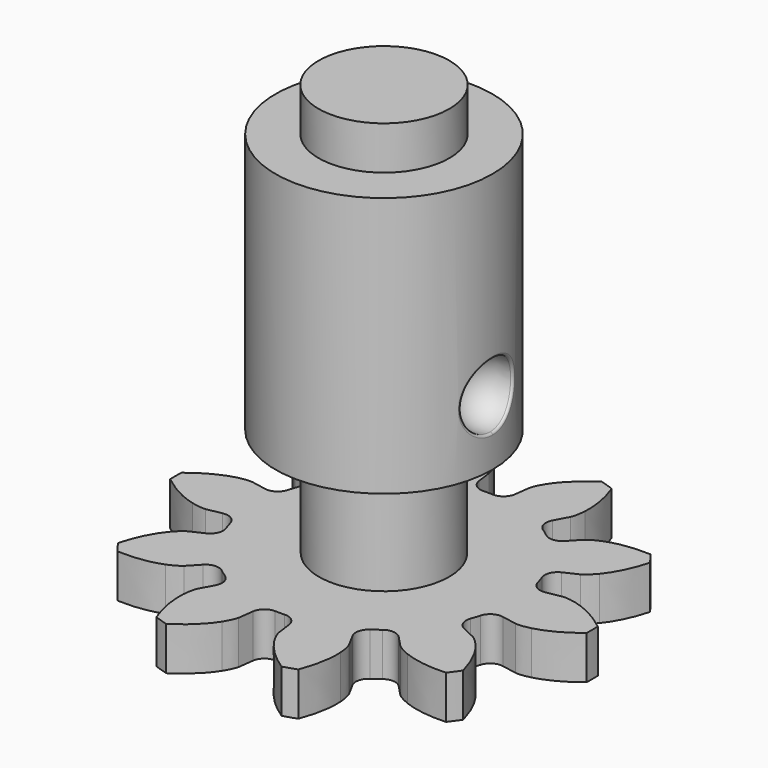
from build123d import *

# Parameters (mm, degrees)
CYLINDER_R        = 5
CYLINDER_DEPTH    = 12
SKETCH_R          = 3.014532
PAD_DEPTH         = 2
FILLET_R          = 0.1
CYLINDER001_R     = 3
CYLINDER001_DEPTH = 5
EXTRUDE_DEPTH     = 2


with BuildPart() as body:
    # Cylinder → Cylinder (new body)
    with BuildSketch(Plane.XY):
        Circle(CYLINDER_R)
    extrude(amount=CYLINDER_DEPTH)

    # Sketch (on Face2 of BaseFeature) → Pad (new body)
    with BuildSketch(Plane.XY.offset(12)):
        Circle(SKETCH_R)
    extrude(amount=PAD_DEPTH)

    # Sphere → Sphere (revolve, cut)
    with BuildSketch(Plane(origin=(4.8, 0, 3), x_dir=(1, 0, 0), z_dir=(0, 1, 0))):
        with BuildLine():
            ThreePointArc((0, -1.5), (1.5, 0), (0, 1.5))
            Line((0, 1.5), (0, -1.5))
        make_face()
    revolve(axis=Axis((4.8, 0, 3), (0, 0, -1)), mode=Mode.SUBTRACT)

    # Fillet
    fillet_edges = [body.edges().sort_by_distance(p)[0] for p in [
        (4.769792, 1.499696, 3),
        (4.886064, -1.061308, 1.943488),
        (4.886064, -1.061308, 4.056512),
    ]]
    fillet(fillet_edges, radius=FILLET_R)

    # Cylinder001 → Cylinder001 (join)
    with BuildSketch(Plane(origin=(0, 0, 0), x_dir=(1, 0, 0), z_dir=(0, 0, -1))):
        Circle(CYLINDER001_R)
    extrude(amount=CYLINDER001_DEPTH)


with BuildPart() as extrude_body:
    # InvoluteGear → Extrude (new body)
    with BuildSketch(Plane.XY):
        with BuildLine():
            Line((6.458018, -1.222294), (7.152807, -1.351982))
            add(Edge.make_bspline(
                [(7.152807, -1.351982), (7.226607, -1.359268), (7.447361, -1.368298), (7.821021, -1.27396)],
                knots=[0, 0, 0, 0, 1, 1, 1, 1], degree=3))
            add(Edge.make_bspline(
                [(7.821021, -1.27396), (8.263037, -1.158099), (8.883405, -0.898215), (9.59784, -0.324505)],
                knots=[0, 0, 0, 0, 1, 1, 1, 1], degree=3))
            ThreePointArc((9.59784, -0.324505), (9.603327, 0), (9.59784, 0.324505))
            add(Edge.make_bspline(
                [(9.59784, 0.324505), (8.883405, 0.898215), (8.263037, 1.158099), (7.821021, 1.27396)],
                knots=[0, 0, 0, 0, 1, 1, 1, 1], degree=3))
            add(Edge.make_bspline(
                [(7.821021, 1.27396), (7.447361, 1.368298), (7.226607, 1.359268), (7.152807, 1.351982)],
                knots=[0, 0, 0, 0, 1, 1, 1, 1], degree=3))
            Line((7.152807, 1.351982), (6.458018, 1.222294))
            ThreePointArc((6.458018, 1.222294), (6.032337, 1.300609), (5.770107, 1.644953))
            ThreePointArc((5.770107, 1.644953), (5.706339, 1.854102), (5.634993, 2.060789))
            ThreePointArc((5.634993, 2.060789), (5.644742, 2.493504), (5.943093, 2.807071))
            Line((5.943093, 2.807071), (6.581418, 3.110538))
            add(Edge.make_bspline(
                [(6.581418, 3.110538), (6.645405, 3.148022), (6.829307, 3.270472), (7.076154, 3.566426)],
                knots=[0, 0, 0, 0, 1, 1, 1, 1], degree=3))
            add(Edge.make_bspline(
                [(7.076154, 3.566426), (7.365651, 3.919969), (7.714783, 4.494863), (7.955556, 5.378939)],
                knots=[0, 0, 0, 0, 1, 1, 1, 1], degree=3))
            ThreePointArc((7.955556, 5.378939), (7.769254, 5.644694), (7.574077, 5.903999))
            add(Edge.make_bspline(
                [(7.574077, 5.903999), (6.658868, 5.948206), (6.004224, 5.793813), (5.578524, 5.627736)],
                knots=[0, 0, 0, 0, 1, 1, 1, 1], degree=3))
            add(Edge.make_bspline(
                [(5.578524, 5.627736), (5.220776, 5.484425), (5.04749, 5.347364), (4.992068, 5.298091)],
                knots=[0, 0, 0, 0, 1, 1, 1, 1], degree=3))
            Line((4.992068, 5.298091), (4.5062, 4.784784))
            ThreePointArc((4.5062, 4.784784), (4.115785, 4.597934), (3.701235, 4.722378))
            ThreePointArc((3.701235, 4.722378), (3.526712, 4.854102), (3.347504, 4.979379))
            ThreePointArc((3.347504, 4.979379), (3.101047, 5.335183), (3.158108, 5.764231))
            Line((3.158108, 5.764231), (3.49615, 6.384939))
            add(Edge.make_bspline(
                [(3.49615, 6.384939), (3.525885, 6.452875), (3.60269, 6.660033), (3.628436, 7.044558)],
                knots=[0, 0, 0, 0, 1, 1, 1, 1], degree=3))
            add(Edge.make_bspline(
                [(3.628436, 7.044558), (3.654837, 7.500743), (3.599376, 8.171057), (3.274519, 9.027811)],
                knots=[0, 0, 0, 0, 1, 1, 1, 1], degree=3))
            ThreePointArc((3.274519, 9.027811), (2.967591, 9.133306), (2.657273, 9.228366))
            add(Edge.make_bspline(
                [(2.657273, 9.228366), (1.89087, 8.726184), (1.452001, 8.216487), (1.20522, 7.831908)],
                knots=[0, 0, 0, 0, 1, 1, 1, 1], degree=3))
            add(Edge.make_bspline(
                [(1.20522, 7.831908), (1.000032, 7.505688), (0.940404, 7.292948), (0.924528, 7.220509)],
                knots=[0, 0, 0, 0, 1, 1, 1, 1], degree=3))
            Line((0.924528, 7.220509), (0.833167, 6.51965))
            ThreePointArc((0.833167, 6.51965), (0.627142, 6.139004), (0.218618, 5.996016))
            ThreePointArc((0.218618, 5.996016), (0, 6), (-0.218618, 5.996016))
            ThreePointArc((-0.218618, 5.996016), (-0.627142, 6.139004), (-0.833167, 6.51965))
            Line((-0.833167, 6.51965), (-0.924528, 7.220509))
            add(Edge.make_bspline(
                [(-0.924528, 7.220509), (-0.940404, 7.292948), (-1.000032, 7.505688), (-1.20522, 7.831908)],
                knots=[0, 0, 0, 0, 1, 1, 1, 1], degree=3))
            add(Edge.make_bspline(
                [(-1.20522, 7.831908), (-1.452001, 8.216487), (-1.89087, 8.726184), (-2.657273, 9.228366)],
                knots=[0, 0, 0, 0, 1, 1, 1, 1], degree=3))
            ThreePointArc((-2.657273, 9.228366), (-2.967591, 9.133306), (-3.274519, 9.027811))
            add(Edge.make_bspline(
                [(-3.274519, 9.027811), (-3.599376, 8.171057), (-3.654837, 7.500743), (-3.628436, 7.044558)],
                knots=[0, 0, 0, 0, 1, 1, 1, 1], degree=3))
            add(Edge.make_bspline(
                [(-3.628436, 7.044558), (-3.60269, 6.660033), (-3.525885, 6.452875), (-3.49615, 6.384939)],
                knots=[0, 0, 0, 0, 1, 1, 1, 1], degree=3))
            Line((-3.49615, 6.384939), (-3.158108, 5.764231))
            ThreePointArc((-3.158108, 5.764231), (-3.101047, 5.335183), (-3.347504, 4.979379))
            ThreePointArc((-3.347504, 4.979379), (-3.526712, 4.854102), (-3.701235, 4.722378))
            ThreePointArc((-3.701235, 4.722378), (-4.115785, 4.597934), (-4.5062, 4.784784))
            Line((-4.5062, 4.784784), (-4.992068, 5.298091))
            add(Edge.make_bspline(
                [(-4.992068, 5.298091), (-5.04749, 5.347364), (-5.220776, 5.484425), (-5.578524, 5.627736)],
                knots=[0, 0, 0, 0, 1, 1, 1, 1], degree=3))
            add(Edge.make_bspline(
                [(-5.578524, 5.627736), (-6.004224, 5.793813), (-6.658868, 5.948206), (-7.574077, 5.903999)],
                knots=[0, 0, 0, 0, 1, 1, 1, 1], degree=3))
            ThreePointArc((-7.574077, 5.903999), (-7.769254, 5.644694), (-7.955556, 5.378939))
            add(Edge.make_bspline(
                [(-7.955556, 5.378939), (-7.714783, 4.494863), (-7.365651, 3.919969), (-7.076154, 3.566426)],
                knots=[0, 0, 0, 0, 1, 1, 1, 1], degree=3))
            add(Edge.make_bspline(
                [(-7.076154, 3.566426), (-6.829307, 3.270472), (-6.645405, 3.148022), (-6.581418, 3.110538)],
                knots=[0, 0, 0, 0, 1, 1, 1, 1], degree=3))
            Line((-6.581418, 3.110538), (-5.943093, 2.807071))
            ThreePointArc((-5.943093, 2.807071), (-5.644742, 2.493504), (-5.634993, 2.060789))
            ThreePointArc((-5.634993, 2.060789), (-5.706339, 1.854102), (-5.770107, 1.644953))
            ThreePointArc((-5.770107, 1.644953), (-6.032337, 1.300609), (-6.458018, 1.222294))
            Line((-6.458018, 1.222294), (-7.152807, 1.351982))
            add(Edge.make_bspline(
                [(-7.152807, 1.351982), (-7.226607, 1.359268), (-7.447361, 1.368298), (-7.821021, 1.27396)],
                knots=[0, 0, 0, 0, 1, 1, 1, 1], degree=3))
            add(Edge.make_bspline(
                [(-7.821021, 1.27396), (-8.263037, 1.158099), (-8.883405, 0.898215), (-9.59784, 0.324505)],
                knots=[0, 0, 0, 0, 1, 1, 1, 1], degree=3))
            ThreePointArc((-9.59784, 0.324505), (-9.603327, 0), (-9.59784, -0.324505))
            add(Edge.make_bspline(
                [(-9.59784, -0.324505), (-8.883405, -0.898215), (-8.263037, -1.158099), (-7.821021, -1.27396)],
                knots=[0, 0, 0, 0, 1, 1, 1, 1], degree=3))
            add(Edge.make_bspline(
                [(-7.821021, -1.27396), (-7.447361, -1.368298), (-7.226607, -1.359268), (-7.152807, -1.351982)],
                knots=[0, 0, 0, 0, 1, 1, 1, 1], degree=3))
            Line((-7.152807, -1.351982), (-6.458018, -1.222294))
            ThreePointArc((-6.458018, -1.222294), (-6.032337, -1.300609), (-5.770107, -1.644953))
            ThreePointArc((-5.770107, -1.644953), (-5.706339, -1.854102), (-5.634993, -2.060789))
            ThreePointArc((-5.634993, -2.060789), (-5.644742, -2.493504), (-5.943093, -2.807071))
            Line((-5.943093, -2.807071), (-6.581418, -3.110538))
            add(Edge.make_bspline(
                [(-6.581418, -3.110538), (-6.645405, -3.148022), (-6.829307, -3.270472), (-7.076154, -3.566426)],
                knots=[0, 0, 0, 0, 1, 1, 1, 1], degree=3))
            add(Edge.make_bspline(
                [(-7.076154, -3.566426), (-7.365651, -3.919969), (-7.714783, -4.494863), (-7.955556, -5.378939)],
                knots=[0, 0, 0, 0, 1, 1, 1, 1], degree=3))
            ThreePointArc((-7.955556, -5.378939), (-7.769254, -5.644694), (-7.574077, -5.903999))
            add(Edge.make_bspline(
                [(-7.574077, -5.903999), (-6.658868, -5.948206), (-6.004224, -5.793813), (-5.578524, -5.627736)],
                knots=[0, 0, 0, 0, 1, 1, 1, 1], degree=3))
            add(Edge.make_bspline(
                [(-5.578524, -5.627736), (-5.220776, -5.484425), (-5.04749, -5.347364), (-4.992068, -5.298091)],
                knots=[0, 0, 0, 0, 1, 1, 1, 1], degree=3))
            Line((-4.992068, -5.298091), (-4.5062, -4.784784))
            ThreePointArc((-4.5062, -4.784784), (-4.115785, -4.597934), (-3.701235, -4.722378))
            ThreePointArc((-3.701235, -4.722378), (-3.526712, -4.854102), (-3.347504, -4.979379))
            ThreePointArc((-3.347504, -4.979379), (-3.101047, -5.335183), (-3.158108, -5.764231))
            Line((-3.158108, -5.764231), (-3.49615, -6.384939))
            add(Edge.make_bspline(
                [(-3.49615, -6.384939), (-3.525885, -6.452875), (-3.60269, -6.660033), (-3.628436, -7.044558)],
                knots=[0, 0, 0, 0, 1, 1, 1, 1], degree=3))
            add(Edge.make_bspline(
                [(-3.628436, -7.044558), (-3.654837, -7.500743), (-3.599376, -8.171057), (-3.274519, -9.027811)],
                knots=[0, 0, 0, 0, 1, 1, 1, 1], degree=3))
            ThreePointArc((-3.274519, -9.027811), (-2.967591, -9.133306), (-2.657273, -9.228366))
            add(Edge.make_bspline(
                [(-2.657273, -9.228366), (-1.89087, -8.726184), (-1.452001, -8.216487), (-1.20522, -7.831908)],
                knots=[0, 0, 0, 0, 1, 1, 1, 1], degree=3))
            add(Edge.make_bspline(
                [(-1.20522, -7.831908), (-1.000032, -7.505688), (-0.940404, -7.292948), (-0.924528, -7.220509)],
                knots=[0, 0, 0, 0, 1, 1, 1, 1], degree=3))
            Line((-0.924528, -7.220509), (-0.833167, -6.51965))
            ThreePointArc((-0.833167, -6.51965), (-0.627142, -6.139004), (-0.218618, -5.996016))
            ThreePointArc((-0.218618, -5.996016), (0, -6), (0.218618, -5.996016))
            ThreePointArc((0.218618, -5.996016), (0.627142, -6.139004), (0.833167, -6.51965))
            Line((0.833167, -6.51965), (0.924528, -7.220509))
            add(Edge.make_bspline(
                [(0.924528, -7.220509), (0.940404, -7.292948), (1.000032, -7.505688), (1.20522, -7.831908)],
                knots=[0, 0, 0, 0, 1, 1, 1, 1], degree=3))
            add(Edge.make_bspline(
                [(1.20522, -7.831908), (1.452001, -8.216487), (1.89087, -8.726184), (2.657273, -9.228366)],
                knots=[0, 0, 0, 0, 1, 1, 1, 1], degree=3))
            ThreePointArc((2.657273, -9.228366), (2.967591, -9.133306), (3.274519, -9.027811))
            add(Edge.make_bspline(
                [(3.274519, -9.027811), (3.599376, -8.171057), (3.654837, -7.500743), (3.628436, -7.044558)],
                knots=[0, 0, 0, 0, 1, 1, 1, 1], degree=3))
            add(Edge.make_bspline(
                [(3.628436, -7.044558), (3.60269, -6.660033), (3.525885, -6.452875), (3.49615, -6.384939)],
                knots=[0, 0, 0, 0, 1, 1, 1, 1], degree=3))
            Line((3.49615, -6.384939), (3.158108, -5.764231))
            ThreePointArc((3.158108, -5.764231), (3.101047, -5.335183), (3.347504, -4.979379))
            ThreePointArc((3.347504, -4.979379), (3.526712, -4.854102), (3.701235, -4.722378))
            ThreePointArc((3.701235, -4.722378), (4.115785, -4.597934), (4.5062, -4.784784))
            Line((4.5062, -4.784784), (4.992068, -5.298091))
            add(Edge.make_bspline(
                [(4.992068, -5.298091), (5.04749, -5.347364), (5.220776, -5.484425), (5.578524, -5.627736)],
                knots=[0, 0, 0, 0, 1, 1, 1, 1], degree=3))
            add(Edge.make_bspline(
                [(5.578524, -5.627736), (6.004224, -5.793813), (6.658868, -5.948206), (7.574077, -5.903999)],
                knots=[0, 0, 0, 0, 1, 1, 1, 1], degree=3))
            ThreePointArc((7.574077, -5.903999), (7.769254, -5.644694), (7.955556, -5.378939))
            add(Edge.make_bspline(
                [(7.955556, -5.378939), (7.714783, -4.494863), (7.365651, -3.919969), (7.076154, -3.566426)],
                knots=[0, 0, 0, 0, 1, 1, 1, 1], degree=3))
            add(Edge.make_bspline(
                [(7.076154, -3.566426), (6.829307, -3.270472), (6.645405, -3.148022), (6.581418, -3.110538)],
                knots=[0, 0, 0, 0, 1, 1, 1, 1], degree=3))
            Line((6.581418, -3.110538), (5.943093, -2.807071))
            ThreePointArc((5.943093, -2.807071), (5.644742, -2.493504), (5.634993, -2.060789))
            ThreePointArc((5.634993, -2.060789), (5.706339, -1.854102), (5.770107, -1.644953))
            ThreePointArc((5.770107, -1.644953), (6.032337, -1.300609), (6.458018, -1.222294))
        make_face()
    extrude(amount=EXTRUDE_DEPTH)


with BuildPart() as extrude_body_1:
    # Extrude placement: moved
    add(extrude_body.part.moved(Location((0, 0, -7))))


solid = Compound([body.part, extrude_body_1.part])
